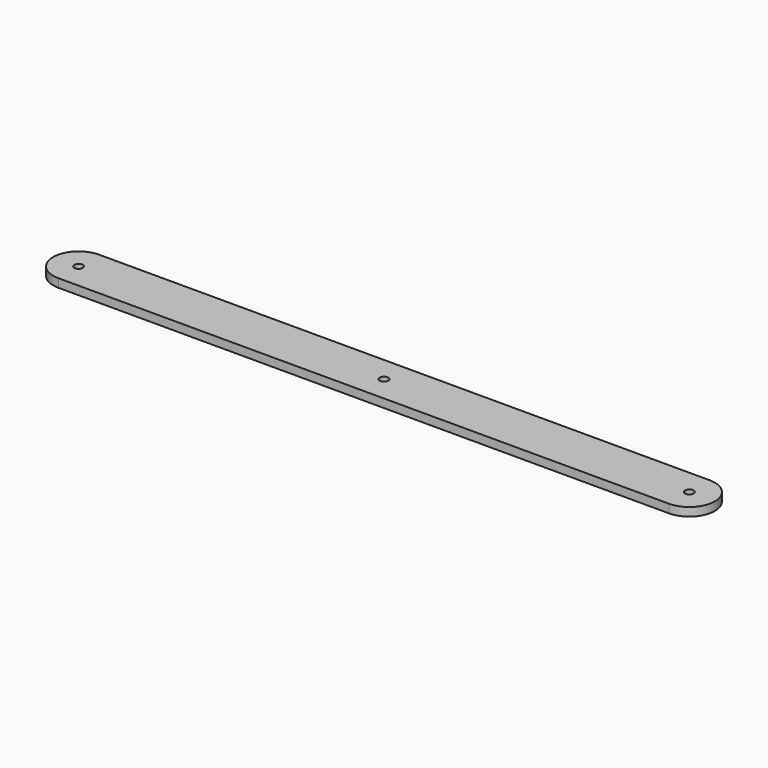
from build123d import *

# Parameters (mm, degrees)
F0_R     = 1.5875
F1_DEPTH = 3.175


with BuildPart() as f1:
    # F0 (on Top) → F1 (new body)
    with BuildSketch(Plane.XY):
        with BuildLine():
            ThreePointArc((114.3, -9.525), (123.825, 0), (114.3, 9.525))
            Line((114.3, 9.525), (-114.3, 9.525))
            ThreePointArc((-114.3, 9.525), (-123.825, 0), (-114.3, -9.525))
            Line((-114.3, -9.525), (114.3, -9.525))
        make_face()
        with Locations((-114.3, 0)):
            Circle(F0_R, mode=Mode.SUBTRACT)
        Circle(F0_R, mode=Mode.SUBTRACT)
        with Locations((114.3, 0)):
            Circle(F0_R, mode=Mode.SUBTRACT)
    extrude(amount=F1_DEPTH)


solid = f1.part
